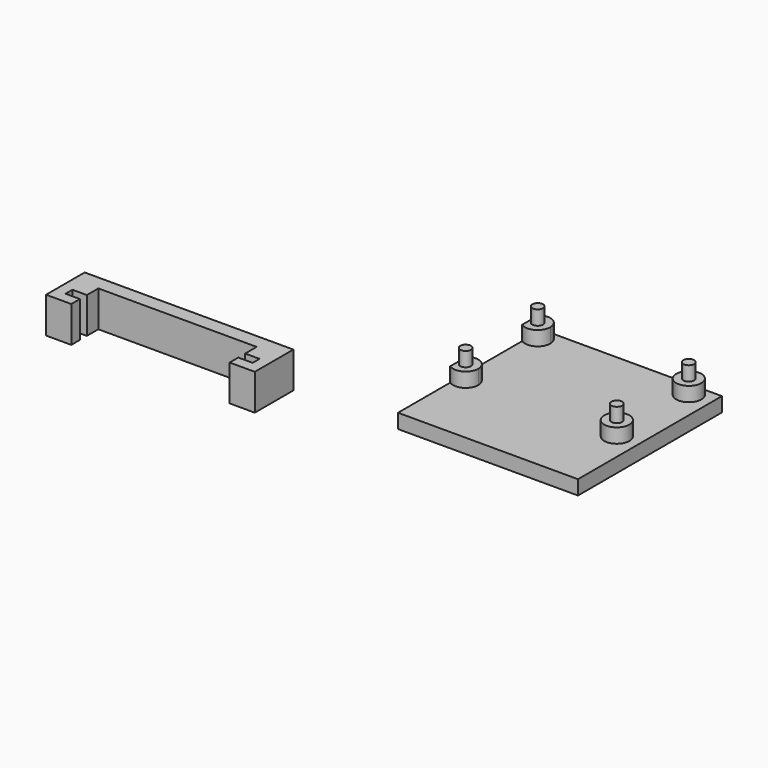
from build123d import *

# Parameters (mm, degrees)
F0_R     = 1.75
F1_DEPTH = 2
F0_R_2   = 0.75
F2_DEPTH = 4
F3_DEPTH = 6
F4_DEPTH = 5


with BuildPart() as f1:
    # F0 (on Top) → F1 (new body)
    with BuildSketch(Plane.XY):
        with BuildLine():
            Line((13.5, 2), (-11.5, 2))
            Line((-11.5, 2), (-11.5, 1.436141))
            ThreePointArc((-11.5, 1.436141), (-9.689907, 1.551209), (-8.75, 0))
            ThreePointArc((-8.75, 0), (-9.689907, -1.551209), (-11.5, -1.436141))
            Line((-11.5, -1.436141), (-11.5, -11.063859))
            ThreePointArc((-11.5, -11.063859), (-9.689907, -10.948791), (-8.75, -12.5))
            ThreePointArc((-8.75, -12.5), (-9.689907, -14.051209), (-11.5, -13.936141))
            Line((-11.5, -13.936141), (-11.5, -23))
            Line((-11.5, -23), (13.5, -23))
            Line((13.5, -23), (13.5, 2))
        make_face()
        with Locations((10.5, -12.5)):
            Circle(F0_R, mode=Mode.SUBTRACT)
        with Locations((10.5, 0)):
            Circle(F0_R, mode=Mode.SUBTRACT)
    extrude(amount=F1_DEPTH)

    # F0 (on Top) → F2 (join)
    with BuildSketch(Plane.XY):
        with BuildLine():
            ThreePointArc((-8.75, 0), (-9.689907, 1.551209), (-11.5, 1.436141))
            Line((-11.5, 1.436141), (-11.5, -1.436141))
            ThreePointArc((-11.5, -1.436141), (-9.689907, -1.551209), (-8.75, 0))
        make_face()
        with Locations((-10.5, 0)):
            Circle(F0_R_2, mode=Mode.SUBTRACT)
        with Locations((10.5, 0)):
            Circle(F0_R)
        with Locations((10.5, 0)):
            Circle(F0_R_2, mode=Mode.SUBTRACT)
        with Locations((10.5, -12.5)):
            Circle(F0_R)
        with Locations((10.5, -12.5)):
            Circle(F0_R_2, mode=Mode.SUBTRACT)
        with BuildLine():
            ThreePointArc((-8.75, -12.5), (-9.689907, -10.948791), (-11.5, -11.063859))
            Line((-11.5, -11.063859), (-11.5, -13.936141))
            ThreePointArc((-11.5, -13.936141), (-9.689907, -14.051209), (-8.75, -12.5))
        make_face()
        with Locations((-10.5, -12.5)):
            Circle(F0_R_2, mode=Mode.SUBTRACT)
    extrude(amount=F2_DEPTH)

    # F0 (on Top) → F3 (join)
    with BuildSketch(Plane.XY):
        with Locations((-10.5, 0)):
            Circle(F0_R_2)
        with Locations((10.5, 0)):
            Circle(F0_R_2)
        with Locations((10.5, -12.5)):
            Circle(F0_R_2)
        with Locations((-10.5, -12.5)):
            Circle(F0_R_2)
    extrude(amount=F3_DEPTH)


with BuildPart() as f4:
    # F0 (on Top) → F4 (new body)
    with BuildSketch(Plane.XY):
        Polygon((-26.040516, -23), (-40.540516, -23), (-55.040516, -23), (-55.040516, -29.7), (-51.540516, -29.7), (-51.540516, -28.2), (-53.540516, -28.2), (-53.540516, -27), (-51.540516, -27), (-51.540516, -25), (-40.540516, -25), (-29.540516, -25), (-29.540516, -27), (-27.540516, -27), (-27.540516, -28.2), (-29.540516, -28.2), (-29.540516, -29.7), (-26.040516, -29.7), align=None)
    extrude(amount=F4_DEPTH)


solid = Compound([f1.part, f4.part])
